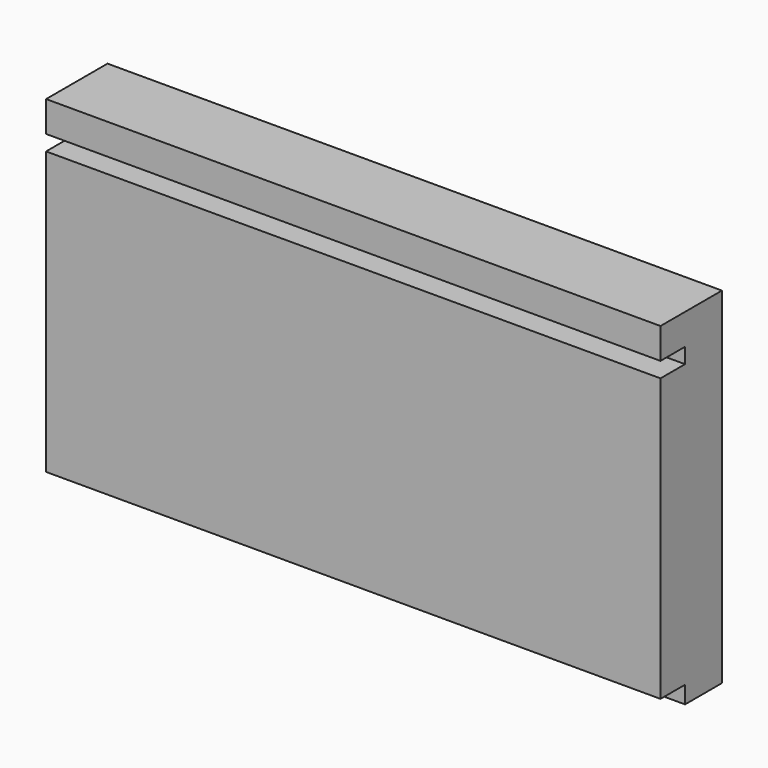
from build123d import *

# Parameters (mm, degrees)
F0_W     = 160
F0_H     = 85.483871
F1_DEPTH = 20
F0_H_2   = 4.516129
F2_DEPTH = 12
F3_W     = 160
F3_H     = 4
F4_DEPTH = 8


with BuildPart() as f1:
    # F0 (on Front) → F1 (new body)
    with BuildSketch(Plane.XZ):
        with Locations((11.642713, 9.040126)):
            Rectangle(F0_W, F0_H)
    extrude(amount=F1_DEPTH)

    # F0 (on Front) → F2 (join)
    with BuildSketch(Plane.XZ):
        with Locations((11.642713, -35.959874)):
            Rectangle(F0_W, F0_H_2)
    extrude(amount=F2_DEPTH)

    # F3 (on face) → F4 (cut)
    with BuildSketch(Plane.XZ.offset(20)):
        with Locations((11.642713, 41.782062)):
            Rectangle(F3_W, F3_H)
    extrude(amount=-F4_DEPTH, mode=Mode.SUBTRACT)


solid = f1.part
